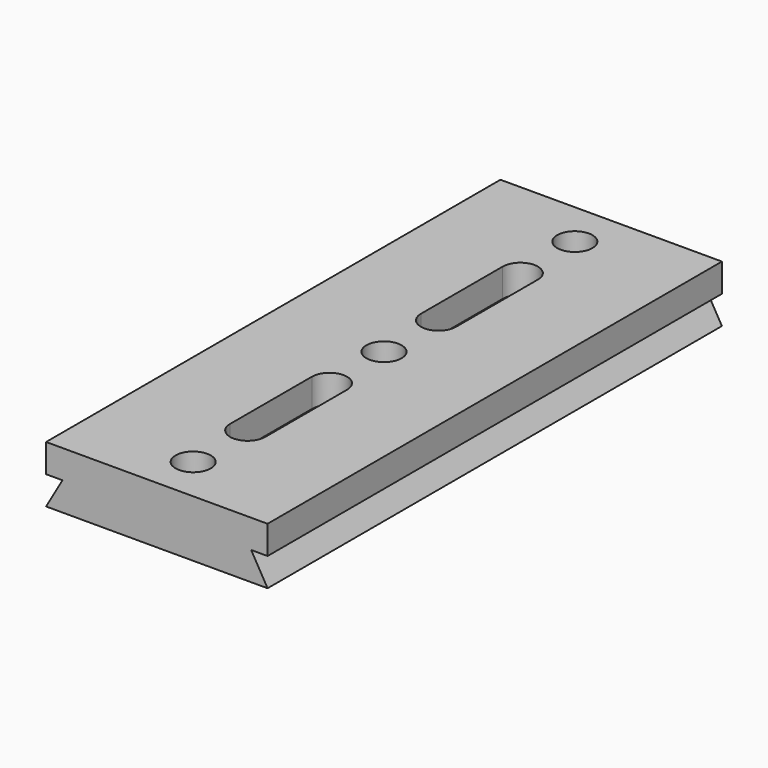
from build123d import *

# Parameters (mm, degrees)
F1_DEPTH = 50
F2_R     = 5.5
F3_DEPTH = 5
F4_R     = 3.1
F5_DEPTH = 5.001


with BuildPart() as f1:
    # F0 (on Front) → F1 (new body, symmetric)
    with BuildSketch(Plane.XZ):
        Polygon((16.613249, -2.5), (19.5, -2.5), (19.5, 2.5), (-19.5, 2.5), (-19.5, -2.5), (-16.613249, -2.5), (-19.5, -7.5), (19.5, -7.5), align=None)
    extrude(amount=F1_DEPTH, both=True)

    # F2 (on face) → F3 (cut)
    with BuildSketch(Plane(origin=(0, 0, -7.5), x_dir=(1, 0, 0), z_dir=(0, 0, -1))):
        Circle(F2_R)
        with Locations((0, -42)):
            Circle(F2_R)
        with Locations((0, 42)):
            Circle(F2_R)
        with BuildLine():
            ThreePointArc((-5.5, -30), (0, -35.5), (5.5, -30))
            ThreePointArc((5.5, -30), (0, -24.5), (-5.5, -30))
        make_face()
        with BuildLine():
            ThreePointArc((-5.5, -30), (0, -24.5), (5.5, -30))
            Line((5.5, -30), (5.5, -12))
            ThreePointArc((5.5, -12), (0, -17.5), (-5.5, -12))
            Line((-5.5, -12), (-5.5, -30))
        make_face()
        with BuildLine():
            ThreePointArc((-5.5, -12), (0, -17.5), (5.5, -12))
            ThreePointArc((5.5, -12), (0, -6.5), (-5.5, -12))
        make_face()
        with BuildLine():
            ThreePointArc((-5.5, 12), (0, 6.5), (5.5, 12))
            ThreePointArc((5.5, 12), (0, 17.5), (-5.5, 12))
        make_face()
        with BuildLine():
            ThreePointArc((-5.5, 12), (0, 17.5), (5.5, 12))
            Line((5.5, 12), (5.5, 30))
            ThreePointArc((5.5, 30), (0, 24.5), (-5.5, 30))
            Line((-5.5, 30), (-5.5, 12))
        make_face()
        with BuildLine():
            ThreePointArc((-5.5, 30), (0, 24.5), (5.5, 30))
            ThreePointArc((5.5, 30), (0, 35.5), (-5.5, 30))
        make_face()
    extrude(amount=-F3_DEPTH, mode=Mode.SUBTRACT)

    # F4 (on face) → F5 (cut, through all)
    with BuildSketch(Plane(origin=(0, 0, -2.5), x_dir=(1, 0, 0), z_dir=(0, 0, -1))):
        with Locations((0, -42)):
            Circle(F4_R)
        Circle(F4_R)
        with Locations((0, 42)):
            Circle(F4_R)
        with BuildLine():
            ThreePointArc((-3.1, -30), (0, -33.1), (3.1, -30))
            ThreePointArc((3.1, -30), (0, -26.9), (-3.1, -30))
        make_face()
        with BuildLine():
            ThreePointArc((-3.1, -30), (0, -26.9), (3.1, -30))
            Line((3.1, -30), (3.1, -12))
            ThreePointArc((3.1, -12), (0, -15.1), (-3.1, -12))
            Line((-3.1, -12), (-3.1, -30))
        make_face()
        with BuildLine():
            ThreePointArc((-3.1, -12), (0, -15.1), (3.1, -12))
            ThreePointArc((3.1, -12), (0, -8.9), (-3.1, -12))
        make_face()
        with BuildLine():
            ThreePointArc((-3.1, 12), (0, 8.9), (3.1, 12))
            ThreePointArc((3.1, 12), (0, 15.1), (-3.1, 12))
        make_face()
        with BuildLine():
            ThreePointArc((-3.1, 12), (0, 15.1), (3.1, 12))
            Line((3.1, 12), (3.1, 30))
            ThreePointArc((3.1, 30), (0, 26.9), (-3.1, 30))
            Line((-3.1, 30), (-3.1, 12))
        make_face()
        with BuildLine():
            ThreePointArc((-3.1, 30), (0, 26.9), (3.1, 30))
            ThreePointArc((3.1, 30), (0, 33.1), (-3.1, 30))
        make_face()
    extrude(amount=-F5_DEPTH, mode=Mode.SUBTRACT)


solid = f1.part
